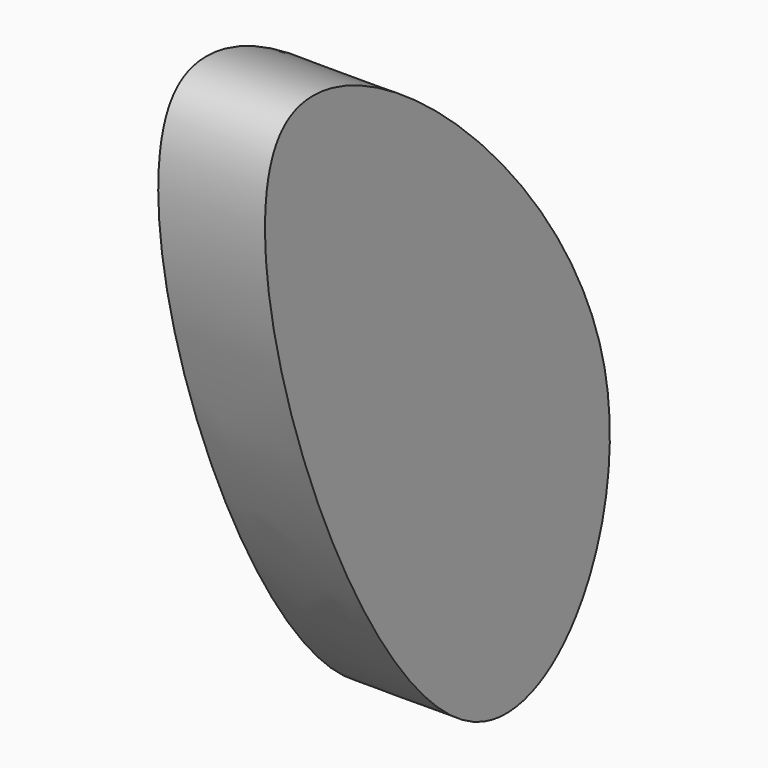
from build123d import *

# Parameters (mm, degrees)
F1_DEPTH = 10.16


with BuildPart() as f1:
    # F0 (on Right) → F1 (new body)
    with BuildSketch(Plane.YZ):
        with BuildLine():
            add(Edge.make_bspline(
                [(-38.3406989276, 45.4246886075), (-46.0744092247, 37.2354599001), (-18.655083046, -37.3973729837), (15.2769638788, 13.6560701947), (-31.3383315972, 52.8394979757), (-38.3406989276, 45.4246886075)],
                knots=[0, 0, 0, 0, 0.3884874147, 0.6482501314, 1, 1, 1, 1], degree=3))
        make_face()
    extrude(amount=F1_DEPTH)


solid = f1.part
